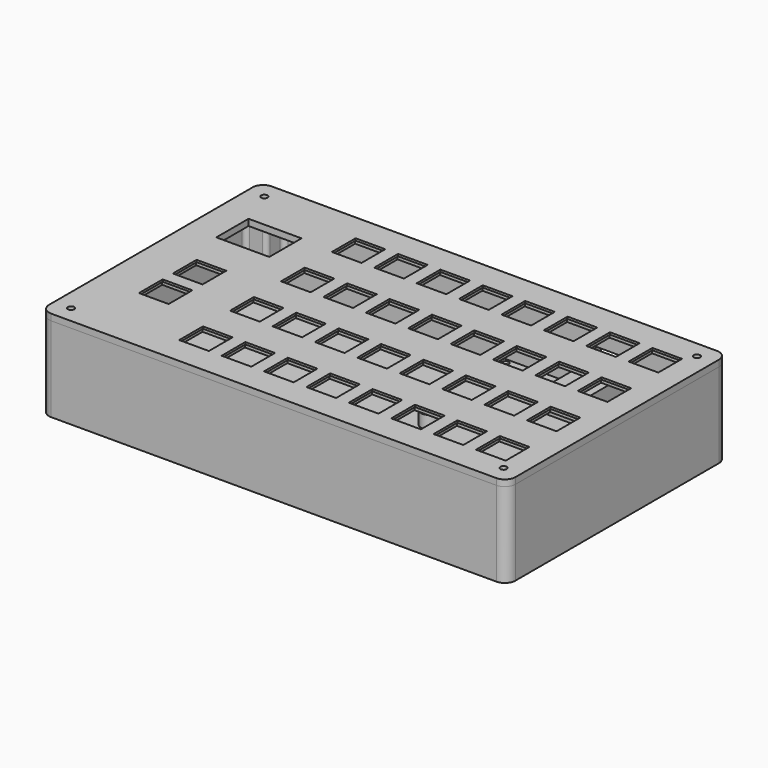
from build123d import *

# Parameters (mm, degrees)
SKETCH_W        = 220
SKETCH_H        = 130
PAD_DEPTH       = 3
SKETCH001_W     = 16
SKETCH001_H     = 16
POCKET_DEPTH    = 2
SKETCH002_W     = 14
SKETCH002_H     = 14
POCKET001_DEPTH = 1
SKETCH003_W     = 16
SKETCH003_H     = 16
POCKET002_DEPTH = 2
SKETCH004_W     = 14
SKETCH004_H     = 14
POCKET003_DEPTH = 1
SKETCH005_W     = 25
SKETCH005_H     = 19
POCKET004_DEPTH = 3
FILLET_R        = 5
SKETCH009_R     = 1.5
POCKET007_DEPTH = 3
PAD002_DEPTH    = 2
SKETCH006_W     = 220
SKETCH006_H     = 130
PAD001_DEPTH    = 40
FILLET001_R     = 5
POCKET005_DEPTH = 37
SKETCH008_R     = 2
POCKET006_DEPTH = 6
FILLET002_R     = 2
FILLET003_R     = 2
SKETCH011_R     = 4
SKETCH011_R_2   = 2
PAD003_DEPTH    = 6
SKETCH018_W     = 14
SKETCH018_H     = 8
POCKET010_DEPTH = 3
SKETCH012_W     = 75
SKETCH012_H     = 55
PAD004_DEPTH    = 1
SKETCH013_R     = 4
SKETCH013_R_2   = 2
PAD005_DEPTH    = 6
POCKET008_DEPTH = 5
SKETCH015_W     = 70
SKETCH015_H     = 50
PAD006_DEPTH    = 1.2
SKETCH016_R     = 1.5
POCKET009_DEPTH = 1.2
SKETCH017_W     = 17.5
SKETCH017_H     = 23.5
PAD007_DEPTH    = 12


with BuildPart() as faceplate:
    # Sketch → Pad (new body)
    with BuildSketch(Plane.XY):
        Rectangle(SKETCH_W, SKETCH_H)
    extrude(amount=PAD_DEPTH)

    # Sketch001 (on Face5 of Pad) → Pocket (cut)
    with BuildSketch(Plane(origin=(0, 0, 0), x_dir=(1, 0, 0), z_dir=(0, 0, -1))):
        with Locations((92, 45)):
            Rectangle(SKETCH001_W, SKETCH001_H)
        with Locations((-48, 15)):
            Rectangle(SKETCH001_W, SKETCH001_H)
        with Locations((-28, 15)):
            Rectangle(SKETCH001_W, SKETCH001_H)
        with Locations((-8, 15)):
            Rectangle(SKETCH001_W, SKETCH001_H)
        with Locations((12, 15)):
            Rectangle(SKETCH001_W, SKETCH001_H)
        with Locations((32, 15)):
            Rectangle(SKETCH001_W, SKETCH001_H)
        with Locations((52, 15)):
            Rectangle(SKETCH001_W, SKETCH001_H)
        with Locations((72, 15)):
            Rectangle(SKETCH001_W, SKETCH001_H)
        with Locations((92, 15)):
            Rectangle(SKETCH001_W, SKETCH001_H)
        with Locations((-48, -15)):
            Rectangle(SKETCH001_W, SKETCH001_H)
        with Locations((-28, -15)):
            Rectangle(SKETCH001_W, SKETCH001_H)
        with Locations((-8, -15)):
            Rectangle(SKETCH001_W, SKETCH001_H)
        with Locations((12, -15)):
            Rectangle(SKETCH001_W, SKETCH001_H)
        with Locations((32, -15)):
            Rectangle(SKETCH001_W, SKETCH001_H)
        with Locations((52, -15)):
            Rectangle(SKETCH001_W, SKETCH001_H)
        with Locations((72, -15)):
            Rectangle(SKETCH001_W, SKETCH001_H)
        with Locations((92, -15)):
            Rectangle(SKETCH001_W, SKETCH001_H)
        with Locations((-48, -45)):
            Rectangle(SKETCH001_W, SKETCH001_H)
        with Locations((-28, -45)):
            Rectangle(SKETCH001_W, SKETCH001_H)
        with Locations((-8, -45)):
            Rectangle(SKETCH001_W, SKETCH001_H)
        with Locations((12, -45)):
            Rectangle(SKETCH001_W, SKETCH001_H)
        with Locations((32, -45)):
            Rectangle(SKETCH001_W, SKETCH001_H)
        with Locations((52, -45)):
            Rectangle(SKETCH001_W, SKETCH001_H)
        with Locations((72, -45)):
            Rectangle(SKETCH001_W, SKETCH001_H)
        with Locations((92, -45)):
            Rectangle(SKETCH001_W, SKETCH001_H)
        with Locations((-48, 45)):
            Rectangle(SKETCH001_W, SKETCH001_H)
        with Locations((-28, 45)):
            Rectangle(SKETCH001_W, SKETCH001_H)
        with Locations((-8, 45)):
            Rectangle(SKETCH001_W, SKETCH001_H)
        with Locations((12, 45)):
            Rectangle(SKETCH001_W, SKETCH001_H)
        with Locations((32, 45)):
            Rectangle(SKETCH001_W, SKETCH001_H)
        with Locations((52, 45)):
            Rectangle(SKETCH001_W, SKETCH001_H)
        with Locations((72, 45)):
            Rectangle(SKETCH001_W, SKETCH001_H)
    extrude(amount=-POCKET_DEPTH, mode=Mode.SUBTRACT)

    # Sketch002 (on Face135 of Pocket) → Pocket001 (cut)
    with BuildSketch(Plane(origin=(0, 0, 2), x_dir=(1, 0, 0), z_dir=(0, 0, -1))):
        with Locations((92, 45)):
            Rectangle(SKETCH002_W, SKETCH002_H)
        with Locations((-48, 15)):
            Rectangle(SKETCH002_W, SKETCH002_H)
        with Locations((-28, 15)):
            Rectangle(SKETCH002_W, SKETCH002_H)
        with Locations((-8, 15)):
            Rectangle(SKETCH002_W, SKETCH002_H)
        with Locations((12, 15)):
            Rectangle(SKETCH002_W, SKETCH002_H)
        with Locations((32, 15)):
            Rectangle(SKETCH002_W, SKETCH002_H)
        with Locations((52, 15)):
            Rectangle(SKETCH002_W, SKETCH002_H)
        with Locations((72, 15)):
            Rectangle(SKETCH002_W, SKETCH002_H)
        with Locations((92, 15)):
            Rectangle(SKETCH002_W, SKETCH002_H)
        with Locations((-48, -15)):
            Rectangle(SKETCH002_W, SKETCH002_H)
        with Locations((-28, -15)):
            Rectangle(SKETCH002_W, SKETCH002_H)
        with Locations((-8, -15)):
            Rectangle(SKETCH002_W, SKETCH002_H)
        with Locations((12, -15)):
            Rectangle(SKETCH002_W, SKETCH002_H)
        with Locations((32, -15)):
            Rectangle(SKETCH002_W, SKETCH002_H)
        with Locations((52, -15)):
            Rectangle(SKETCH002_W, SKETCH002_H)
        with Locations((72, -15)):
            Rectangle(SKETCH002_W, SKETCH002_H)
        with Locations((92, -15)):
            Rectangle(SKETCH002_W, SKETCH002_H)
        with Locations((-48, -45)):
            Rectangle(SKETCH002_W, SKETCH002_H)
        with Locations((-28, -45)):
            Rectangle(SKETCH002_W, SKETCH002_H)
        with Locations((-8, -45)):
            Rectangle(SKETCH002_W, SKETCH002_H)
        with Locations((12, -45)):
            Rectangle(SKETCH002_W, SKETCH002_H)
        with Locations((32, -45)):
            Rectangle(SKETCH002_W, SKETCH002_H)
        with Locations((52, -45)):
            Rectangle(SKETCH002_W, SKETCH002_H)
        with Locations((72, -45)):
            Rectangle(SKETCH002_W, SKETCH002_H)
        with Locations((92, -45)):
            Rectangle(SKETCH002_W, SKETCH002_H)
        with Locations((-48, 45)):
            Rectangle(SKETCH002_W, SKETCH002_H)
        with Locations((-28, 45)):
            Rectangle(SKETCH002_W, SKETCH002_H)
        with Locations((-8, 45)):
            Rectangle(SKETCH002_W, SKETCH002_H)
        with Locations((12, 45)):
            Rectangle(SKETCH002_W, SKETCH002_H)
        with Locations((32, 45)):
            Rectangle(SKETCH002_W, SKETCH002_H)
        with Locations((52, 45)):
            Rectangle(SKETCH002_W, SKETCH002_H)
        with Locations((72, 45)):
            Rectangle(SKETCH002_W, SKETCH002_H)
    extrude(amount=-POCKET001_DEPTH, mode=Mode.SUBTRACT)

    # Sketch003 (on Face4 of Pocket001) → Pocket002 (cut)
    with BuildSketch(Plane(origin=(0, 0, 0), x_dir=(1, 0, 0), z_dir=(0, 0, -1))):
        with Locations((-83, 5)):
            Rectangle(SKETCH003_W, SKETCH003_H)
        with Locations((-83, 25)):
            Rectangle(SKETCH003_W, SKETCH003_H)
    extrude(amount=-POCKET002_DEPTH, mode=Mode.SUBTRACT)

    # Sketch004 (on Face274 of Pocket002) → Pocket003 (cut)
    with BuildSketch(Plane(origin=(0, 0, 2), x_dir=(1, 0, 0), z_dir=(0, 0, -1))):
        with Locations((-83, 5)):
            Rectangle(SKETCH004_W, SKETCH004_H)
        with Locations((-83, 25)):
            Rectangle(SKETCH004_W, SKETCH004_H)
    extrude(amount=-POCKET003_DEPTH, mode=Mode.SUBTRACT)

    # Sketch005 (on Face5 of Pocket003) → Pocket004 (cut)
    with BuildSketch(Plane.XY.offset(3)):
        with Locations((-83, 30)):
            Rectangle(SKETCH005_W, SKETCH005_H)
    extrude(amount=-POCKET004_DEPTH, mode=Mode.SUBTRACT)

    # Fillet
    fillet_edges = [faceplate.edges().sort_by_distance(p)[0] for p in [
        (-110, -65, 1.5),
        (110, -65, 1.5),
        (110, 65, 1.5),
        (-110, 65, 1.5),
    ]]
    fillet(fillet_edges, radius=FILLET_R)

    # Sketch009 (on Face5 of Fillet) → Pocket007 (cut)
    with BuildSketch(Plane.XY.offset(3)):
        with Locations((-102, 57)):
            Circle(SKETCH009_R)
        with Locations((102, 57)):
            Circle(SKETCH009_R)
        with Locations((102, -57)):
            Circle(SKETCH009_R)
        with Locations((-102, -57)):
            Circle(SKETCH009_R)
    extrude(amount=-POCKET007_DEPTH, mode=Mode.SUBTRACT)

    # Sketch010 (on Face2 of Pocket007) → Pad002 (join)
    with BuildSketch(Plane(origin=(0, 0, 0), x_dir=(1, 0, 0), z_dir=(0, 0, -1))):
        Polygon((106.5, 31), (-62, 31), (-62, 61.5), (-64.5, 61.5), (-64.5, 43), (-106.5, 43), (-106.5, 40.5), (-64.5, 40.5), (-64.5, -10.5), (-106.5, -10.5), (-106.5, -13), (-64.5, -13), (-64.5, -61.5), (-62, -61.5), (-62, -31), (106.5, -31), (106.5, -29), (-62, -29), (-62, -1), (106.5, -1), (106.5, 1), (-62, 1), (-62, 29), (106.5, 29), align=None)
    extrude(amount=PAD002_DEPTH)


with BuildPart() as faceplate_1:
    # Body placement: moved
    add(faceplate.part.moved(Location((0, 0, 40))))


with BuildPart() as body:
    # Sketch006 → Pad001 (new body)
    with BuildSketch(Plane.XY):
        Rectangle(SKETCH006_W, SKETCH006_H)
    extrude(amount=PAD001_DEPTH)

    # Fillet001
    fillet001_edges = [body.edges().sort_by_distance(p)[0] for p in [
        (-110, -65, 20),
        (110, -65, 20),
        (110, 65, 20),
        (-110, 65, 20),
    ]]
    fillet(fillet001_edges, radius=FILLET001_R)

    # Sketch007 (on Face5 of Fillet001) → Pocket005 (cut)
    with BuildSketch(Plane.XY.offset(40)):
        Polygon((-97, -62), (97, -62), (97, -52), (107, -52), (107, 52), (97, 52), (97, 62), (-97, 62), (-97, 52), (-107, 52), (-107, -52), (-97, -52), align=None)
    extrude(amount=-POCKET005_DEPTH, mode=Mode.SUBTRACT)

    # Sketch008 (on Face5 of Pocket005) → Pocket006 (cut)
    with BuildSketch(Plane.XY.offset(40)):
        with Locations((-102, 57)):
            Circle(SKETCH008_R)
        with Locations((102, 57)):
            Circle(SKETCH008_R)
        with Locations((102, -57)):
            Circle(SKETCH008_R)
        with Locations((-102, -57)):
            Circle(SKETCH008_R)
    extrude(amount=-POCKET006_DEPTH, mode=Mode.SUBTRACT)

    # Fillet002
    fillet002_edges = [body.edges().sort_by_distance(p)[0] for p in [
        (-107, -52, 21.5),
        (-97, -62, 21.5),
        (-107, 52, 21.5),
        (-97, 62, 21.5),
        (97, -62, 21.5),
        (107, -52, 21.5),
        (97, 62, 21.5),
        (107, 52, 21.5),
    ]]
    fillet(fillet002_edges, radius=FILLET002_R)

    # Fillet003
    fillet003_edges = [body.edges().sort_by_distance(p)[0] for p in [
        (97, 52, 21.5),
        (97, -52, 21.5),
        (-97, -52, 21.5),
        (-97, 52, 21.5),
    ]]
    fillet(fillet003_edges, radius=FILLET003_R)

    # Sketch011 (on Face38 of Fillet003) → Pad003 (join)
    with BuildSketch(Plane.XY.offset(3)):
        with Locations((11, 13)):
            Circle(SKETCH011_R)
        with Locations((11, 13)):
            Circle(SKETCH011_R_2, mode=Mode.SUBTRACT)
        with Locations((76, 13)):
            Circle(SKETCH011_R)
        with Locations((76, 13)):
            Circle(SKETCH011_R_2, mode=Mode.SUBTRACT)
        with BuildLine():
            Line((7, 62), (7, 58))
            ThreePointArc((7, 58), (11, 54), (15, 58))
            Line((15, 58), (15, 62))
            Line((15, 62), (7, 62))
        make_face()
        with Locations((11, 58)):
            Circle(SKETCH011_R_2, mode=Mode.SUBTRACT)
        with BuildLine():
            Line((72, 62), (72, 58))
            ThreePointArc((72, 58), (76, 54), (80, 58))
            Line((80, 58), (80, 62))
            Line((80, 62), (72, 62))
        make_face()
        with Locations((76, 58)):
            Circle(SKETCH011_R_2, mode=Mode.SUBTRACT)
    extrude(amount=PAD003_DEPTH)

    # Sketch018 (on Face29 of Pad003) → Pocket010 (cut)
    with BuildSketch(Plane(origin=(0, 65, 0), x_dir=(-1, 0, 0), z_dir=(0, 1, 0))):
        with Locations((-57.25, 24.2)):
            Rectangle(SKETCH018_W, SKETCH018_H)
    extrude(amount=-POCKET010_DEPTH, mode=Mode.SUBTRACT)


with BuildPart() as body002:
    # Sketch012 → Pad004 (new body)
    with BuildSketch(Plane.XY):
        Rectangle(SKETCH012_W, SKETCH012_H)
    extrude(amount=PAD004_DEPTH)

    # Sketch013 (on Face6 of Pad004) → Pad005 (join)
    with BuildSketch(Plane.XY.offset(1)):
        with Locations((-32.449083, -22.472614)):
            Circle(SKETCH013_R)
        with Locations((-32.449083, -22.472614)):
            Circle(SKETCH013_R_2, mode=Mode.SUBTRACT)
        with Locations((32.550917, -22.472614)):
            Circle(SKETCH013_R)
        with Locations((32.550917, -22.472614)):
            Circle(SKETCH013_R_2, mode=Mode.SUBTRACT)
        with BuildLine():
            Line((-36.449083, 26.527386), (-36.449083, 22.527386))
            ThreePointArc((-36.449083, 22.527386), (-32.449083, 18.527386), (-28.449083, 22.527386))
            Line((-28.449083, 22.527386), (-28.449083, 26.527386))
            Line((-28.449083, 26.527386), (-36.449083, 26.527386))
        make_face()
        with Locations((-32.449083, 22.527386)):
            Circle(SKETCH013_R_2, mode=Mode.SUBTRACT)
        with BuildLine():
            Line((28.550917, 26.527386), (28.550917, 22.527386))
            ThreePointArc((28.550917, 22.527386), (32.550917, 18.527386), (36.550917, 22.527386))
            Line((36.550917, 22.527386), (36.550917, 26.527386))
            Line((36.550917, 26.527386), (28.550917, 26.527386))
        make_face()
        with Locations((32.550917, 22.527386)):
            Circle(SKETCH013_R_2, mode=Mode.SUBTRACT)
    extrude(amount=PAD005_DEPTH)

    # Sketch014 (on Face5 of Pad005) → Pocket008 (cut)
    with BuildSketch(Plane.XY.offset(1)):
        Polygon((-27.05208, 23.30354), (27.05208, 23.30354), (27.05208, 17.740635), (32.614985, 17.740635), (32.614985, -17.740635), (27.05208, -17.740635), (27.05208, -23.30354), (-27.05208, -23.30354), (-27.05208, -17.740635), (-32.614985, -17.740635), (-32.614985, 17.740635), (-27.05208, 17.740635), align=None)
    extrude(amount=-POCKET008_DEPTH, mode=Mode.SUBTRACT)


with BuildPart() as pcb:
    # Sketch015 → Pad006 (new body)
    with BuildSketch(Plane.XY):
        Rectangle(SKETCH015_W, SKETCH015_H)
    extrude(amount=PAD006_DEPTH)

    # Sketch016 (on Face6 of Pad006) → Pocket009 (cut)
    with BuildSketch(Plane.XY.offset(1.2)):
        with Locations((-32.5, 22.5)):
            Circle(SKETCH016_R)
        with Locations((32.5, 22.5)):
            Circle(SKETCH016_R)
        with Locations((32.5, -22.5)):
            Circle(SKETCH016_R)
        with Locations((-32.5, -22.5)):
            Circle(SKETCH016_R)
    extrude(amount=-POCKET009_DEPTH, mode=Mode.SUBTRACT)

    # Sketch017 (on Face5 of Pocket009) → Pad007 (join)
    with BuildSketch(Plane.XY.offset(1.2)):
        with Locations((13.75, 11.75)):
            Rectangle(SKETCH017_W, SKETCH017_H)
    extrude(amount=PAD007_DEPTH)


with BuildPart() as pcb_1:
    # Body003 placement: moved
    add(pcb.part.moved(Location((43.5, 35.5, 9))))


solid = Compound([faceplate_1.part, body.part, body002.part, pcb_1.part])
